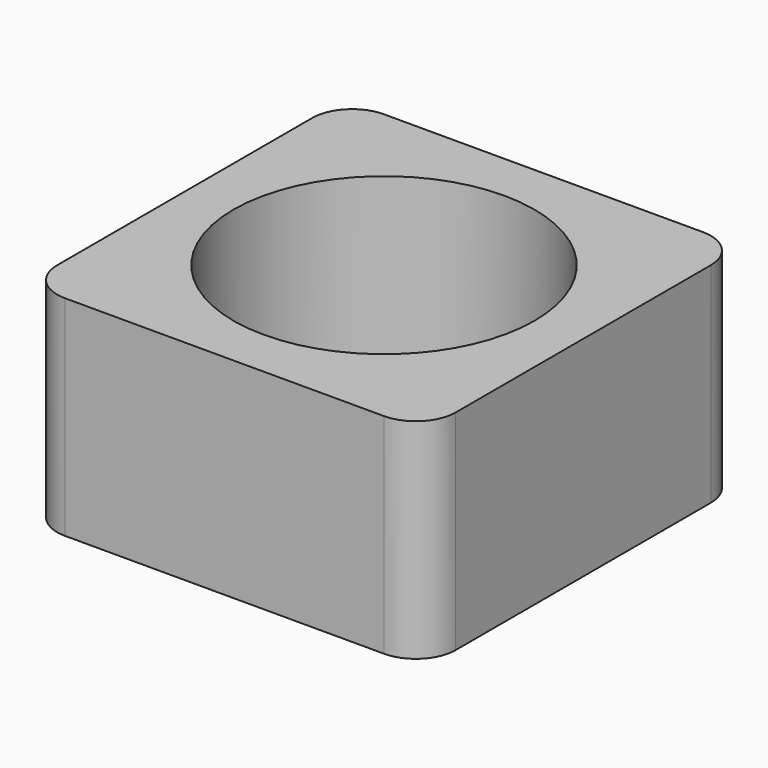
from build123d import *

# Parameters (mm, degrees)
F0_R      = 28.781011
F1_DEPTH  = 40
F1_FACE_R = 28.781011
F2_DEPTH  = 10
F3_DEPTH  = 20


with BuildPart() as f1:
    # F0 (on Top) → F1 (new body)
    with BuildSketch(Plane.XY):
        with BuildLine():
            Line((30.48, 38.1), (-30.48, 38.1))
            ThreePointArc((-30.48, 38.1), (-35.868154, 35.868154), (-38.1, 30.48))
            Line((-38.1, 30.48), (-38.1, -30.48))
            ThreePointArc((-38.1, -30.48), (-35.868154, -35.868154), (-30.48, -38.1))
            Line((-30.48, -38.1), (30.48, -38.1))
            ThreePointArc((30.48, -38.1), (35.868154, -35.868154), (38.1, -30.48))
            Line((38.1, -30.48), (38.1, 30.48))
            ThreePointArc((38.1, 30.48), (35.868154, 35.868154), (30.48, 38.1))
        make_face()
        Circle(F0_R, mode=Mode.SUBTRACT)
        with BuildLine():
            Line((30.48, 38.1), (-30.48, 38.1))
            ThreePointArc((-30.48, 38.1), (-35.868154, 35.868154), (-38.1, 30.48))
            Line((-38.1, 30.48), (-38.1, -30.48))
            ThreePointArc((-38.1, -30.48), (-35.868154, -35.868154), (-30.48, -38.1))
            Line((-30.48, -38.1), (30.48, -38.1))
            ThreePointArc((30.48, -38.1), (35.868154, -35.868154), (38.1, -30.48))
            Line((38.1, -30.48), (38.1, 30.48))
            ThreePointArc((38.1, 30.48), (35.868154, 35.868154), (30.48, 38.1))
        make_face()
        Circle(F0_R, mode=Mode.SUBTRACT)
    extrude(amount=F1_DEPTH)

    # F1_face (on face) → F2 (join)
    with BuildSketch(Plane(origin=(0, 0, 0), x_dir=(1, 0, 0), z_dir=(0, 0, -1))):
        with BuildLine():
            Line((-30.48, -38.1), (30.48, -38.1))
            ThreePointArc((30.48, -38.1), (35.868154, -35.868154), (38.1, -30.48))
            Line((38.1, -30.48), (38.1, 30.48))
            ThreePointArc((38.1, 30.48), (35.868154, 35.868154), (30.48, 38.1))
            Line((30.48, 38.1), (-30.48, 38.1))
            ThreePointArc((-30.48, 38.1), (-35.868154, 35.868154), (-38.1, 30.48))
            Line((-38.1, 30.48), (-38.1, -30.48))
            ThreePointArc((-38.1, -30.48), (-35.868154, -35.868154), (-30.48, -38.1))
        make_face()
        Circle(F1_FACE_R, mode=Mode.SUBTRACT)
    extrude(amount=-F2_DEPTH)

    # F0 (on Top) → F3 (join)
    with BuildSketch(Plane.XY):
        with BuildLine():
            Line((30.48, 38.1), (-30.48, 38.1))
            ThreePointArc((-30.48, 38.1), (-35.868154, 35.868154), (-38.1, 30.48))
            Line((-38.1, 30.48), (-38.1, -30.48))
            ThreePointArc((-38.1, -30.48), (-35.868154, -35.868154), (-30.48, -38.1))
            Line((-30.48, -38.1), (30.48, -38.1))
            ThreePointArc((30.48, -38.1), (35.868154, -35.868154), (38.1, -30.48))
            Line((38.1, -30.48), (38.1, 30.48))
            ThreePointArc((38.1, 30.48), (35.868154, 35.868154), (30.48, 38.1))
        make_face()
        Circle(F0_R, mode=Mode.SUBTRACT)
    extrude(amount=F3_DEPTH)


solid = f1.part
